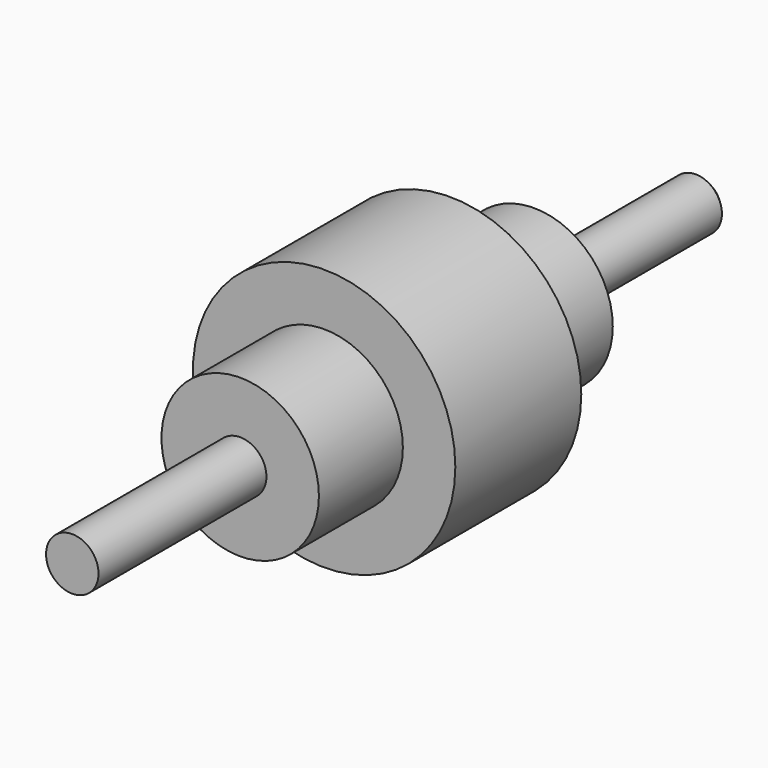
from build123d import *

# Parameters (mm, degrees)
F2_R    = 2
F3_SIZE = 3


with BuildPart() as f1:
    # F0 (on Top) → F1 (revolve)
    with BuildSketch(Plane.XY):
        Polygon((30, 55.720315), (10, 55.720315), (10, 135.720315), (0, 135.720315), (0, -164.279685), (10, -164.279685), (10, -84.279685), (30, -84.279685), (30, -44.279685), (50, -44.279685), (50, 15.720315), (30, 15.720315), align=None)
    revolve(axis=Axis((0, -14.279685, 0), (0, -1, 0)))

    # F2
    f2_edges = [f1.edges().sort_by_distance(p)[0] for p in [
        (-10, 55.720315, 0),
    ]]
    fillet(f2_edges, radius=F2_R)

    # F3
    f3_edges = [f1.edges().sort_by_distance(p)[0] for p in [
        (-10, 135.720315, 0),
    ]]
    chamfer(f3_edges, length=F3_SIZE)


solid = f1.part
